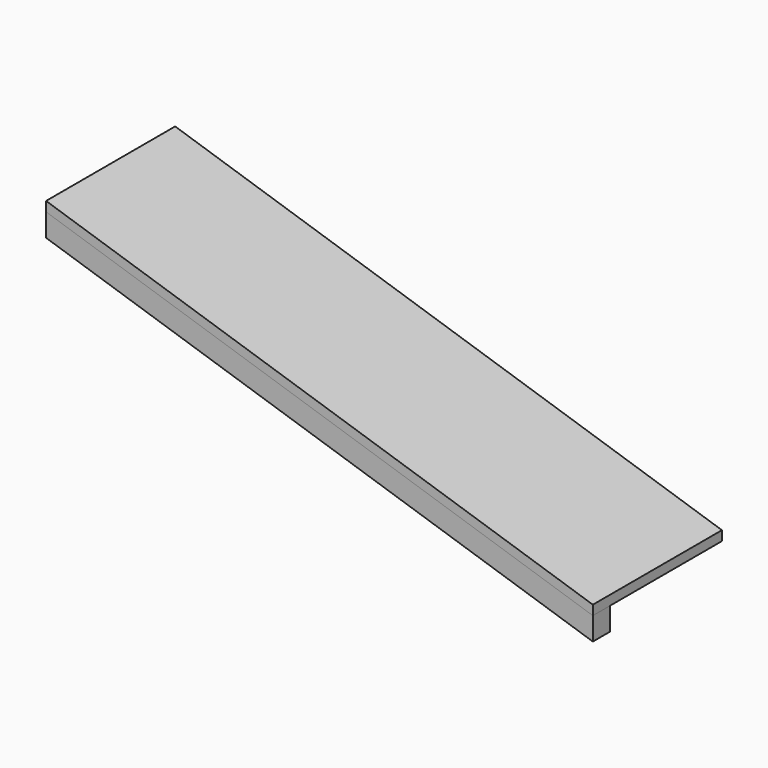
from build123d import *

# Parameters (mm, degrees)
F1_DEPTH = 334
F2_DEPTH = 45


with BuildPart() as f1:
    # F0 (on Front) → F1 (new body)
    with BuildSketch(Plane.XZ):
        Polygon((0, 300), (0, 280.022218), (1131.757254, -87.708006), (1131.757254, -67.730223), align=None)
    extrude(amount=-F1_DEPTH)


with BuildPart() as f2:
    # F0 (on Front) → F2 (new body)
    with BuildSketch(Plane.XZ):
        Polygon((0, 280.022218), (0, 232.706418), (1131.757254, -135.023806), (1131.757254, -87.708006), align=None)
    extrude(amount=-F2_DEPTH)


solid = Compound([f1.part, f2.part])
